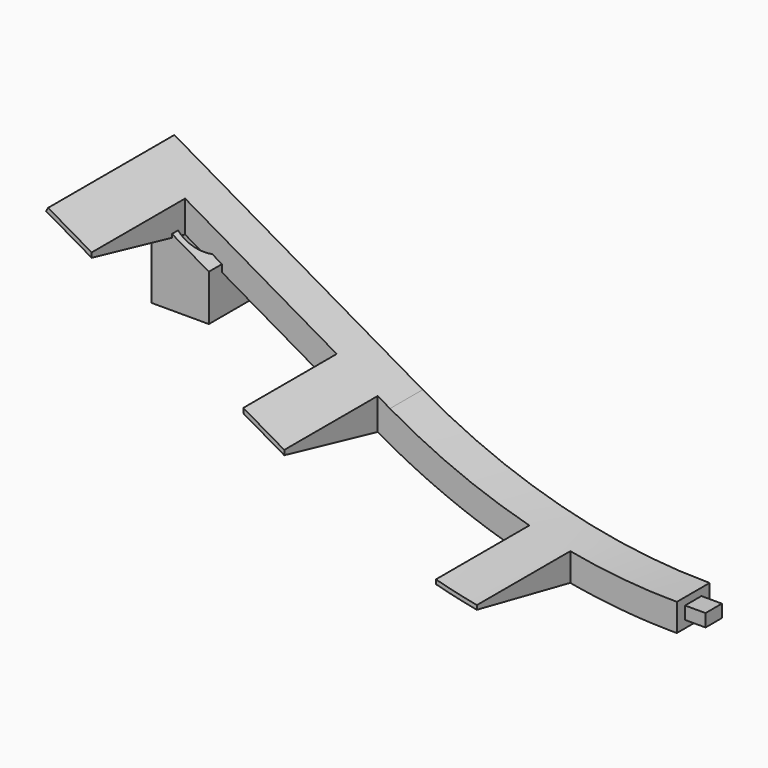
from build123d import *

# Parameters (mm, degrees)
BOX010_W               = 200
BOX010_H               = 100
BOX010_DEPTH           = 100
BOX008_W               = 20
BOX008_H               = 20
BOX008_DEPTH           = 20
BOX008_PLACEMENT_ANGLE = 30
BOX011_W               = 14
BOX011_H               = 14
BOX011_DEPTH           = 20
SKETCH039_R            = 5.5
POCKET007_DEPTH        = 20.001
BOX014_W               = 7.5
BOX014_H               = 60
BOX014_DEPTH           = 200
ARRAY002_X_COUNT       = 7
ARRAY002_X_PITCH       = 47
BOX006_W               = 37
BOX006_H               = 60
BOX006_DEPTH           = 200
ARRAY_X_COUNT          = 6
ARRAY_X_PITCH          = 47
BOX012_W               = 14
BOX012_H               = 14
BOX012_DEPTH           = 12
SKETCH032_R            = 5.5
POCKET009_DEPTH        = 12.001
BOX013_W               = 14
BOX013_H               = 14
BOX013_DEPTH           = 12
SKETCH034_R            = 5.5
POCKET008_DEPTH        = 12.001
BOX009_W               = 37
BOX009_H               = 60
BOX009_DEPTH           = 200
ARRAY001_X_COUNT       = 6
ARRAY001_X_PITCH       = 47
SKETCH035_W            = 3
SKETCH035_H            = 4
SKETCH036_R            = 1.2
POCKET006_DEPTH        = 3.001
SKETCH037_W            = 5
SKETCH037_H            = 3.1
PAD022_DEPTH           = 5


with BuildPart() as bigleft:
    # Box010 → Box010 (new body)
    with BuildSketch(Plane(origin=(0, -50, -50), x_dir=(1, 0, 0), z_dir=(0, 0, 1))):
        with Locations((100, 50)):
            Rectangle(BOX010_W, BOX010_H)
    extrude(amount=BOX010_DEPTH)


with BuildPart() as pillar_cut_cube_l:
    # Box008 → Box008 (new body)
    with BuildSketch(Plane.XY):
        with Locations((10, 10)):
            Rectangle(BOX008_W, BOX008_H)
    extrude(amount=BOX008_DEPTH)


with BuildPart() as pillar_cut_cube_l_1:
    # Box008 placement: moved
    add(pillar_cut_cube_l.part.moved(Location((-127.001, 5, 20.4905))).rotate(Axis((-127.001, 5, 20.4905), (0, 1, 0)), BOX008_PLACEMENT_ANGLE))


with BuildPart() as cut011:
    # Box011 → Box011 (new body)
    with BuildSketch(Plane(origin=(-125, 8.55, 0), x_dir=(1, 0, 0), z_dir=(0, 0, 1))):
        with Locations((7, 7)):
            Rectangle(BOX011_W, BOX011_H)
    extrude(amount=BOX011_DEPTH)

    # Sketch039 → Pocket007 (cut, through all)
    with BuildSketch(Plane(origin=(-125, 8.55, 20), x_dir=(1, 0, 0), z_dir=(0, 0, 1))):
        with Locations((7, 7)):
            Circle(SKETCH039_R)
    extrude(amount=-POCKET007_DEPTH, mode=Mode.SUBTRACT)

    # Cut011: cut pillar_cut_cube_l
    add(pillar_cut_cube_l_1.part, mode=Mode.SUBTRACT)


with BuildPart() as array002:
    # Box014 → Box014 (new body)
    with BuildSketch(Plane(origin=(-128.8, 18.55, -100), x_dir=(1, 0, 0), z_dir=(0, 0, 1))):
        with Locations((3.75, 30)):
            Rectangle(BOX014_W, BOX014_H)
    extrude(amount=BOX014_DEPTH)

    # Array002 X: Array002 ×7


with BuildPart() as array002_1:
    add(array002.part)
    with Locations(*[(i * ARRAY002_X_PITCH, 0, 0) for i in range(1, ARRAY002_X_COUNT)]):
        add(array002.part)


with BuildPart() as rail_cut_cube_array_b:
    # Box006 → Box006 (new body)
    with BuildSketch(Plane(origin=(-120, 18.55, -100), x_dir=(1, 0, 0), z_dir=(0, 0, 1))):
        with Locations((18.5, 30)):
            Rectangle(BOX006_W, BOX006_H)
    extrude(amount=BOX006_DEPTH)

    # Array X: rail_cut_cube_array_b ×6


with BuildPart() as rail_cut_cube_array_b_1:
    add(rail_cut_cube_array_b.part)
    with Locations(*[(i * ARRAY_X_PITCH, 0, 0) for i in range(1, ARRAY_X_COUNT)]):
        add(rail_cut_cube_array_b.part)


with BuildPart() as cut013:
    # Sweep002: sweep along a path in Sketch028
    with BuildLine(Plane.XZ) as sweep002_path:
        Line((164.641016, 24.27441), (144.641016, 24.27441))
        ThreePointArc((144.641016, 24.27441), (123.935493, 21.548477), (104.641016, 13.556443))
        Line((104.641016, 13.556443), (70, -6.443557))
        ThreePointArc((70, -6.443557), (0, -25.2), (-70, -6.443557))
        Line((-70, -6.443557), (-130.621778, 28.556443))
    # Sketch043 → Sweep002 (sweep)
    with BuildSketch(Plane.YZ.offset(164.641016)):
        Polygon((18.55, 17.58), (47.05, 23.28), (18.55, 23.28), align=None)
    sweep(path=sweep002_path.line)

    # Cut012: cut rail_cut_cube_array_b
    add(rail_cut_cube_array_b_1.part, mode=Mode.SUBTRACT)

    # Cut013: cut Array002
    add(array002_1.part, mode=Mode.SUBTRACT)


with BuildPart() as rail_cut_b:
    # Sweep: sweep along a path in Sketch028
    with BuildLine(Plane.XZ) as sweep_path:
        Line((164.641016, 24.27441), (144.641016, 24.27441))
        ThreePointArc((144.641016, 24.27441), (123.935493, 21.548477), (104.641016, 13.556443))
        Line((104.641016, 13.556443), (70, -6.443557))
        ThreePointArc((70, -6.443557), (0, -25.2), (-70, -6.443557))
        Line((-70, -6.443557), (-130.621778, 28.556443))
    # Sketch029 → Sweep (sweep)
    with BuildSketch(Plane.YZ):
        Polygon((-19.25, -25.2), (-19.25, -31.9), (-9.25, -31.9), (-9.25, -26.2), (19.25, -26.2), (19.25, -25.2), align=None)
    sweep(path=sweep_path.line)


with BuildPart() as rail_cut_b_1:
    # Sweep placement: moved
    add(rail_cut_b.part.moved(Location((0, 27.8, 0))))

    # Cut007: cut rail_cut_cube_array_b
    add(rail_cut_cube_array_b_1.part, mode=Mode.SUBTRACT)


with BuildPart() as pillar_hollow_r:
    # Box012 → Box012 (new body)
    with BuildSketch(Plane(origin=(143, 8.55, 7), x_dir=(1, 0, 0), z_dir=(0, 0, 1))):
        with Locations((7, 7)):
            Rectangle(BOX012_W, BOX012_H)
    extrude(amount=BOX012_DEPTH)

    # Sketch032 → Pocket009 (cut, through all)
    with BuildSketch(Plane(origin=(143, 8.55, 19), x_dir=(1, 0, 0), z_dir=(0, 0, 1))):
        with Locations((7, 7)):
            Circle(SKETCH032_R)
    extrude(amount=-POCKET009_DEPTH, mode=Mode.SUBTRACT)


with BuildPart() as pillar_hollow_m:
    # Box013 → Box013 (new body)
    with BuildSketch(Plane(origin=(18, 8.55, -40), x_dir=(1, 0, 0), z_dir=(0, 0, 1))):
        with Locations((7, 7)):
            Rectangle(BOX013_W, BOX013_H)
    extrude(amount=BOX013_DEPTH)

    # Sketch034 → Pocket008 (cut, through all)
    with BuildSketch(Plane(origin=(18, 8.55, -28), x_dir=(1, 0, 0), z_dir=(0, 0, 1))):
        with Locations((7, 7)):
            Circle(SKETCH034_R)
    extrude(amount=-POCKET008_DEPTH, mode=Mode.SUBTRACT)


with BuildPart() as mount_cube_array_b:
    # Box009 → Box009 (new body)
    with BuildSketch(Plane(origin=(-120, 18.55, -100), x_dir=(1, 0, 0), z_dir=(0, 0, 1))):
        with Locations((18.5, 30)):
            Rectangle(BOX009_W, BOX009_H)
    extrude(amount=BOX009_DEPTH)

    # Array001 X: mount_cube_array_b ×6


with BuildPart() as mount_cube_array_b_1:
    add(mount_cube_array_b.part)
    with Locations(*[(i * ARRAY001_X_PITCH, 0, 0) for i in range(1, ARRAY001_X_COUNT)]):
        add(mount_cube_array_b.part)


with BuildPart() as mount_cube_array_b_2:
    # Array001 placement: moved
    add(mount_cube_array_b_1.part.moved(Location((0, -30, 0))))


with BuildPart() as cut014:
    # Sweep001: sweep along a path in Sketch028
    with BuildLine(Plane.XZ) as sweep001_path:
        Line((-130.621778, 28.556443), (-70, -6.443557))
        ThreePointArc((-70, -6.443557), (0, -25.2), (70, -6.443557))
        Line((70, -6.443557), (104.641016, 13.556443))
        ThreePointArc((104.641016, 13.556443), (123.935493, 21.548477), (144.641016, 24.27441))
        Line((144.641016, 24.27441), (164.641016, 24.27441))
    # Sketch035 → Sweep001 (sweep)
    with BuildSketch(Plane.YZ):
        with Locations((-17.75, -33.9)):
            Rectangle(SKETCH035_W, SKETCH035_H)
    sweep(path=sweep001_path.line)


with BuildPart() as cut014_1:
    # Sweep001 placement: moved
    add(cut014.part.moved(Location((0, 27.8, 0))))

    # Sketch036 → Pocket006 (cut, through all)
    with BuildSketch(Plane.XZ.offset(-8.55)):
        with Locations((-127.361382, 16.612761)):
            Circle(SKETCH036_R)
        with Locations((-78.25576, -11.759304)):
            Circle(SKETCH036_R)
        with Locations((-31.170284, -30.615305)):
            Circle(SKETCH036_R)
        with Locations((15.982787, -32.973976)):
            Circle(SKETCH036_R)
        with Locations((62.801571, -19.921701)):
            Circle(SKETCH036_R)
        with Locations((109.81105, 6.487408)):
            Circle(SKETCH036_R)
        with Locations((158.314011, 15.583238)):
            Circle(SKETCH036_R)
    extrude(amount=-POCKET006_DEPTH, mode=Mode.SUBTRACT)

    # Cut010: cut mount_cube_array_b
    add(mount_cube_array_b_2.part, mode=Mode.SUBTRACT)

    # Fusion003: union Cut011, Cut013, rail_cut_b, pillar_hollow_r, pillar_hollow_m
    add(cut011.part)
    add(cut013.part)
    add(rail_cut_b_1.part)
    add(pillar_hollow_r.part)
    add(pillar_hollow_m.part)

    # Cut014: cut bigleft
    add(bigleft.part, mode=Mode.SUBTRACT)


with BuildPart() as clone_of_fusion004:
    # Sketch037 → Pad022 (new body)
    with BuildSketch(Plane.YZ):
        with Locations((13.55, -28.55)):
            Rectangle(SKETCH037_W, SKETCH037_H)
    extrude(amount=PAD022_DEPTH)

    # Fusion004: union Cut014
    add(cut014_1.part)


with BuildPart() as obj1:
    # Part__Mirroring: instance of Clone of Fusion004
    add(clone_of_fusion004.part.mirror(Plane(origin=(0, 0, 0), x_dir=(1, 0, 0), z_dir=(0, 1, 0))))


with BuildPart() as obj1_1:
    # Part__Mirroring placement: moved
    add(obj1.part.moved(Location((0, -5, 0))))


solid = obj1_1.part
